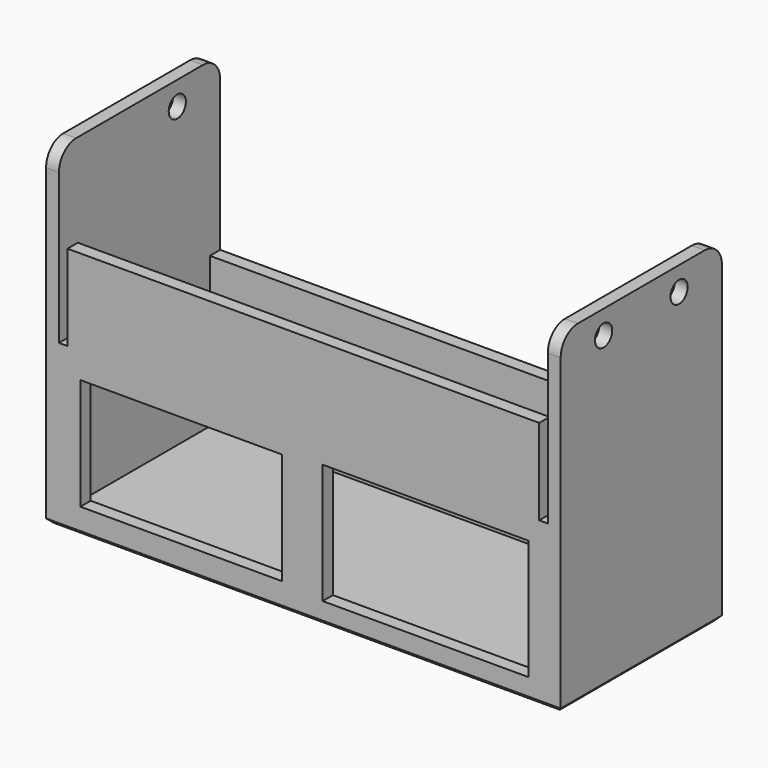
from build123d import *

# Parameters (mm, degrees)
F2_R      = 2.5
F3_DEPTH  = 3
F4_W      = 3
F4_H      = 35
F4_H_2    = 3
F4_W_2    = 41
F5_DEPTH  = 114
F6_R      = 2.5
F7_DEPTH  = 3
F8_W      = 110
F8_H      = 20
F9_DEPTH  = 3
F10_W     = 47
F10_H     = 26
F10_W_2   = 48
F10_H_2   = 28
F11_DEPTH = 3
F13_DEPTH = 3
F14_SIZE  = 1


with BuildPart() as f3:
    # F2 (on Right) → F3 (new body)
    with BuildSketch(Plane.YZ):
        with BuildLine():
            ThreePointArc((22.5, 35), (21.0355339059, 38.5355339059), (17.5, 40))
            Line((17.5, 40), (-19.5, 40))
            ThreePointArc((-19.5, 40), (-23.0355339059, 38.5355339059), (-24.5, 35))
            Line((-24.5, 35), (-24.5, -38))
            Line((-24.5, -38), (22.5, -38))
            Line((22.5, -38), (22.5, 35))
        make_face()
        with Locations((-12, 34.5)):
            Circle(F2_R, mode=Mode.SUBTRACT)
        with Locations((10, 34.5)):
            Circle(F2_R, mode=Mode.SUBTRACT)
    extrude(amount=F3_DEPTH)

    # F4 (on Right) → F5 (join)
    with BuildSketch(Plane.YZ):
        with Locations((-23, -17.5)):
            Rectangle(F4_W, F4_H)
        with Locations((21, -36.5)):
            Rectangle(F4_W, F4_H_2)
        with Locations((21, -17.5)):
            Rectangle(F4_W, F4_H)
        with Locations((-1, -36.5)):
            Rectangle(F4_W_2, F4_H_2)
        with Locations((-23, -36.5)):
            Rectangle(F4_W, F4_H_2)
    extrude(amount=-F5_DEPTH)

    # F6 (on face) → F7 (join)
    with BuildSketch(Plane(origin=(-114, 0, 0), x_dir=(0, -1, 0), z_dir=(-1, 0, 0))):
        with BuildLine():
            ThreePointArc((24.5, 35), (23.0355339059, 38.5355339059), (19.5, 40))
            Line((19.5, 40), (-17.5, 40))
            ThreePointArc((-17.5, 40), (-21.0355339059, 38.5355339059), (-22.5, 35))
            Line((-22.5, 35), (-22.5, -38))
            Line((-22.5, -38), (24.5, -38))
            Line((24.5, -38), (24.5, 35))
        make_face()
        with Locations((-10, 34.5)):
            Circle(F6_R, mode=Mode.SUBTRACT)
    extrude(amount=F7_DEPTH)

    # F8 (on face) → F9 (join)
    with BuildSketch(Plane.XZ.offset(24.5)):
        with Locations((-57, 10)):
            Rectangle(F8_W, F8_H)
    extrude(amount=-F9_DEPTH)

    # F10 (on face) → F11 (cut, through all)
    with BuildSketch(Plane.XZ.offset(24.5)):
        with Locations((-85.5, -19)):
            Rectangle(F10_W, F10_H)
        with Locations((-28.5, -19)):
            Rectangle(F10_W_2, F10_H_2)
    extrude(amount=-F11_DEPTH, mode=Mode.SUBTRACT)

    # F12 (on face) → F13 (cut, through all)
    with BuildSketch(Plane(origin=(0, 22.5, 0), x_dir=(-1, 0, 0), z_dir=(0, 1, 0))):
        with BuildLine():
            ThreePointArc((82, -26), (82.5857864376, -27.4142135624), (84, -28))
            Line((84, -28), (95, -28))
            ThreePointArc((95, -28), (96.4142135624, -27.4142135624), (97, -26))
            Line((97, -26), (97, -24))
            ThreePointArc((97, -24), (96.4142135624, -22.5857864376), (95, -22))
            Line((95, -22), (84, -22))
            ThreePointArc((84, -22), (82.5857864376, -22.5857864376), (82, -24))
            Line((82, -24), (82, -26))
        make_face()
    extrude(amount=-F13_DEPTH, mode=Mode.SUBTRACT)

    # F14
    f14_edges = [f3.edges().sort_by_distance(p)[0] for p in [
        (-57, -24.5, -38),
        (3, -1, -38),
        (-57, 22.5, -38),
        (-117, -1, -38),
    ]]
    chamfer(f14_edges, length=F14_SIZE)


solid = f3.part
